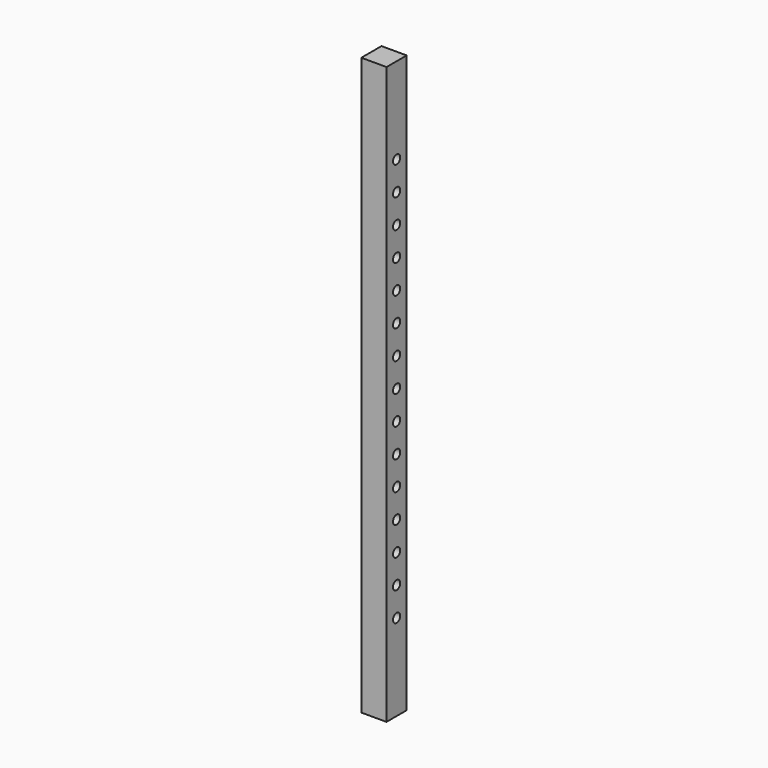
from build123d import *

# Parameters (mm, degrees)
F0_W     = 88.9
F0_H     = 2032
F0_R     = 15.875
F1_DEPTH = 88.9


with BuildPart() as f1:
    # F0 (on Right) → F1 (new body)
    with BuildSketch(Plane.YZ):
        Rectangle(F0_W, F0_H)
        with Locations((0, -711.2)):
            Circle(F0_R, mode=Mode.SUBTRACT)
        with Locations((0, -609.6)):
            Circle(F0_R, mode=Mode.SUBTRACT)
        with Locations((0, -508)):
            Circle(F0_R, mode=Mode.SUBTRACT)
        with Locations((0, -406.4)):
            Circle(F0_R, mode=Mode.SUBTRACT)
        with Locations((0, -304.8)):
            Circle(F0_R, mode=Mode.SUBTRACT)
        with Locations((0, -203.2)):
            Circle(F0_R, mode=Mode.SUBTRACT)
        with Locations((0, -101.6)):
            Circle(F0_R, mode=Mode.SUBTRACT)
        Circle(F0_R, mode=Mode.SUBTRACT)
        with Locations((0, 101.6)):
            Circle(F0_R, mode=Mode.SUBTRACT)
        with Locations((0, 203.2)):
            Circle(F0_R, mode=Mode.SUBTRACT)
        with Locations((0, 304.8)):
            Circle(F0_R, mode=Mode.SUBTRACT)
        with Locations((0, 406.4)):
            Circle(F0_R, mode=Mode.SUBTRACT)
        with Locations((0, 508)):
            Circle(F0_R, mode=Mode.SUBTRACT)
        with Locations((0, 609.6)):
            Circle(F0_R, mode=Mode.SUBTRACT)
        with Locations((0, 711.2)):
            Circle(F0_R, mode=Mode.SUBTRACT)
    extrude(amount=-F1_DEPTH)


solid = f1.part
